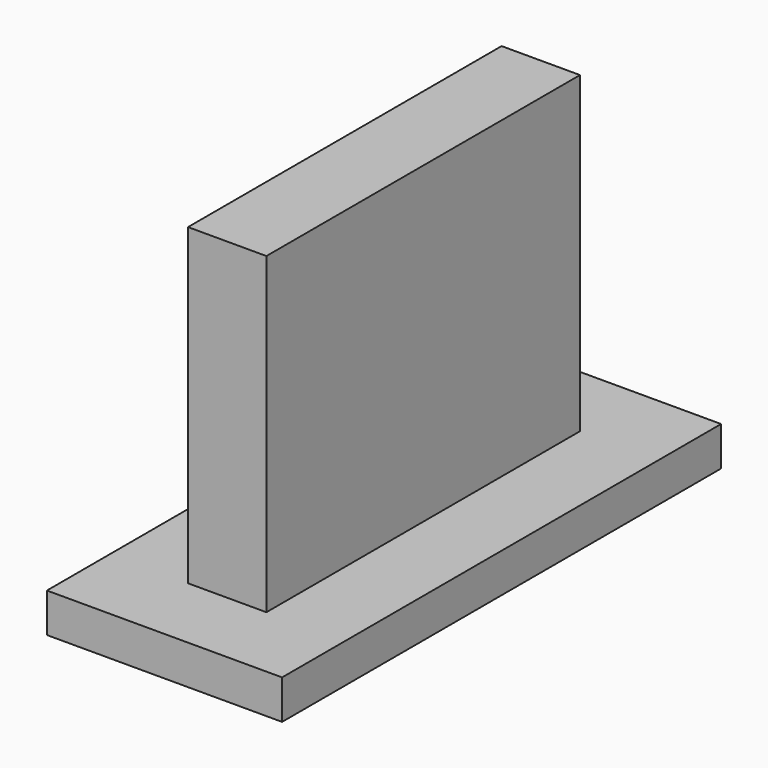
from build123d import *

# Parameters (mm, degrees)
BOX022_W     = 2
BOX022_H     = 10
BOX022_DEPTH = 9
BOX024_W     = 6
BOX024_H     = 14
BOX024_DEPTH = 1


with BuildPart() as obj1_c:
    # Box022 → Box022 (new body)
    with BuildSketch(Plane(origin=(8.6, 93.3, 10.1), x_dir=(1, 0, 0), z_dir=(0, 0, 1))):
        with Locations((1, 5)):
            Rectangle(BOX022_W, BOX022_H)
    extrude(amount=BOX022_DEPTH)


with BuildPart() as obj1:
    # Box024 → Box024 (new body)
    with BuildSketch(Plane(origin=(6.6, 91.3, 10.1), x_dir=(1, 0, 0), z_dir=(0, 0, 1))):
        with Locations((3, 7)):
            Rectangle(BOX024_W, BOX024_H)
    extrude(amount=BOX024_DEPTH)

    # Fusion037: union obj1_c
    add(obj1_c.part)


solid = obj1.part
